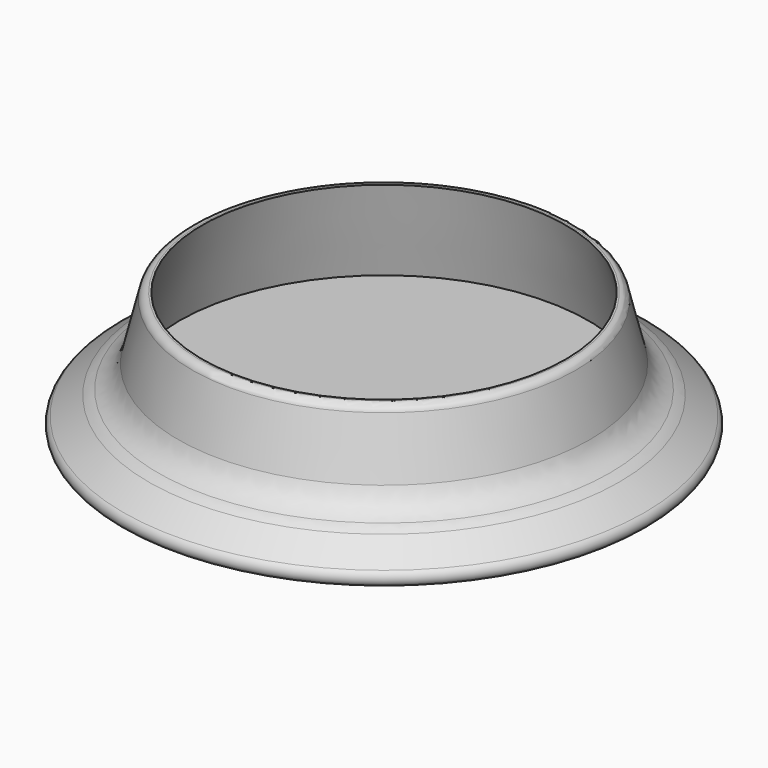
from build123d import *

# Parameters (mm, degrees)
F2_T = -1.27
F3_R = 1.27
F4_R = 1.27
F5_R = 5.08


with BuildPart() as f1:
    # F0 (on Front) → F1 (revolve)
    with BuildSketch(Plane.XZ):
        with BuildLine():
            Line((0, 19.05), (0, 0))
            Line((0, 0), (43.18, 0))
            Line((43.18, 0), (36.1202941176, 5.1351804111))
            ThreePointArc((36.1202941176, 5.1351804111), (34.3489379305, 6.0386627498), (32.385, 6.35))
            Line((32.385, 6.35), (29.21, 19.05))
            Line((29.21, 19.05), (0, 19.05))
        make_face()
    revolve(axis=Axis((0, 0, 9.525), (0, 0, -1)))

    # F2
    f2_openings = [f1.faces().sort_by_distance(p)[0] for p in [
        (0, 0, 19.05),
    ]]
    offset(amount=F2_T, openings=f2_openings, kind=Kind.INTERSECTION)

    # F3
    f3_edges = [f1.edges().sort_by_distance(p)[0] for p in [
        (-43.18, 0, 0),
    ]]
    fillet(f3_edges, radius=F3_R)

    # F4
    f4_edges = [f1.edges().sort_by_distance(p)[0] for p in [
        (-29.21, 0, 19.05),
    ]]
    fillet(f4_edges, radius=F4_R)

    # F5
    f5_edges = [f1.edges().sort_by_distance(p)[0] for p in [
        (-32.385, 0, 6.35),
    ]]
    fillet(f5_edges, radius=F5_R)


solid = f1.part
